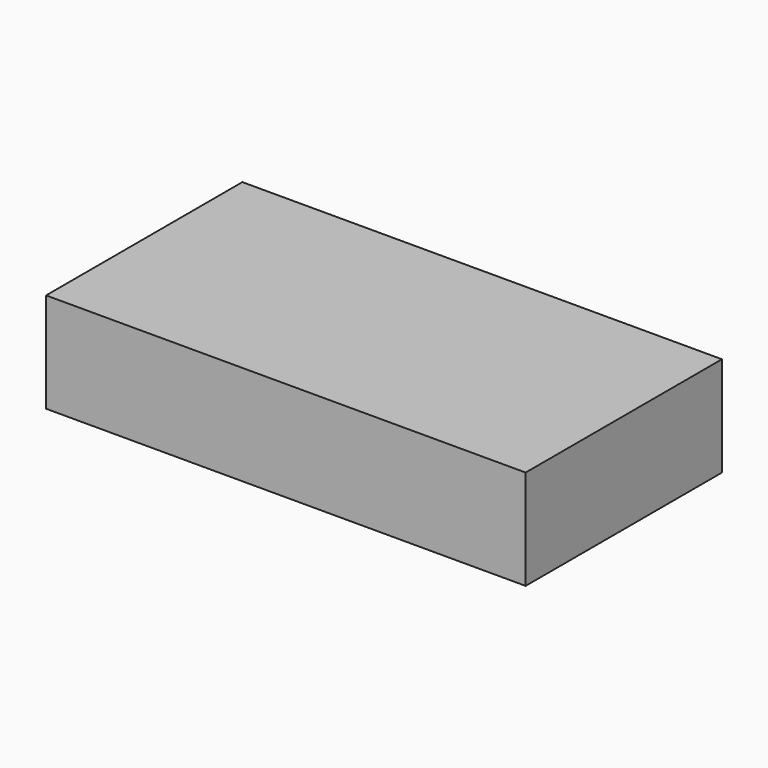
from build123d import *

# Parameters (mm, degrees)
BOX_W     = 70.44
BOX_H     = 36.04
BOX_DEPTH = 14.66


with BuildPart() as part:
    # Box → Box (new body)
    with BuildSketch(Plane.XY):
        with Locations((35.22, 18.02)):
            Rectangle(BOX_W, BOX_H)
    extrude(amount=BOX_DEPTH)


solid = part.part
